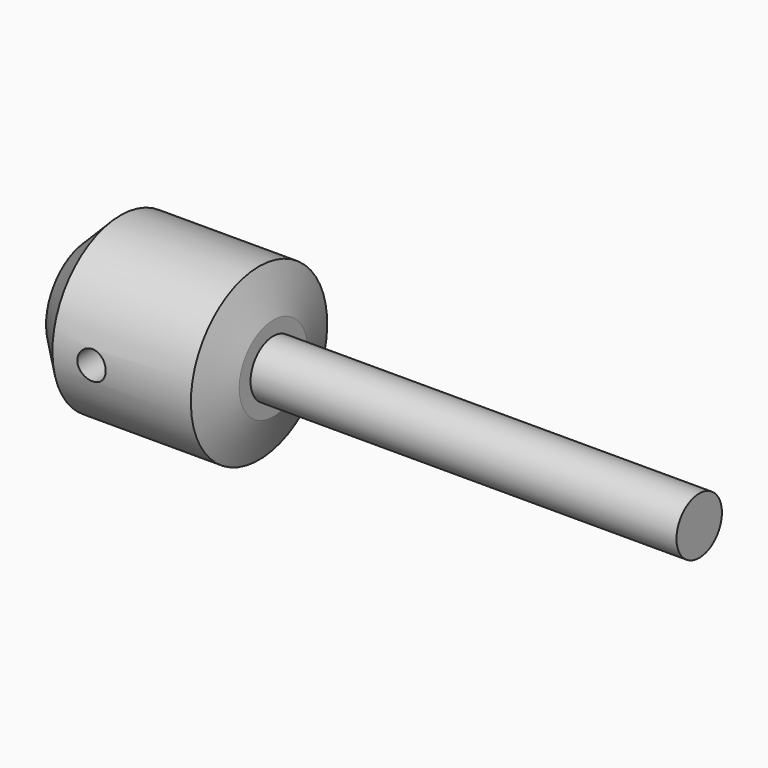
from build123d import *

# Parameters (mm, degrees)
F2_R     = 1
F3_DEPTH = 10
F4_SIZE2 = 1
F4_SIZE  = 3


with BuildPart() as f1:
    # F0 (on Front) → F1 (revolve)
    with BuildSketch(Plane.XZ):
        Polygon((-33, 0), (0, 0), (0, 2), (-30, 2), (-30, 6), (-40.75, 6), (-43, 3.75), (-43, 1.5), (-33, 1.5), align=None)
    revolve(axis=Axis((-16.5, 0, 0), (-1, 0, 0)))

    # F2 (on Front) → F3 (cut)
    with BuildSketch(Plane.XZ):
        with Locations((-38, 0)):
            Circle(F2_R)
    extrude(amount=F3_DEPTH, mode=Mode.SUBTRACT)

    # F4
    f4_edges = [f1.edges().sort_by_distance(p)[0] for p in [
        (-30, 0, -6),
    ]]
    chamfer(f4_edges, length=F4_SIZE, length2=F4_SIZE2)


solid = f1.part
